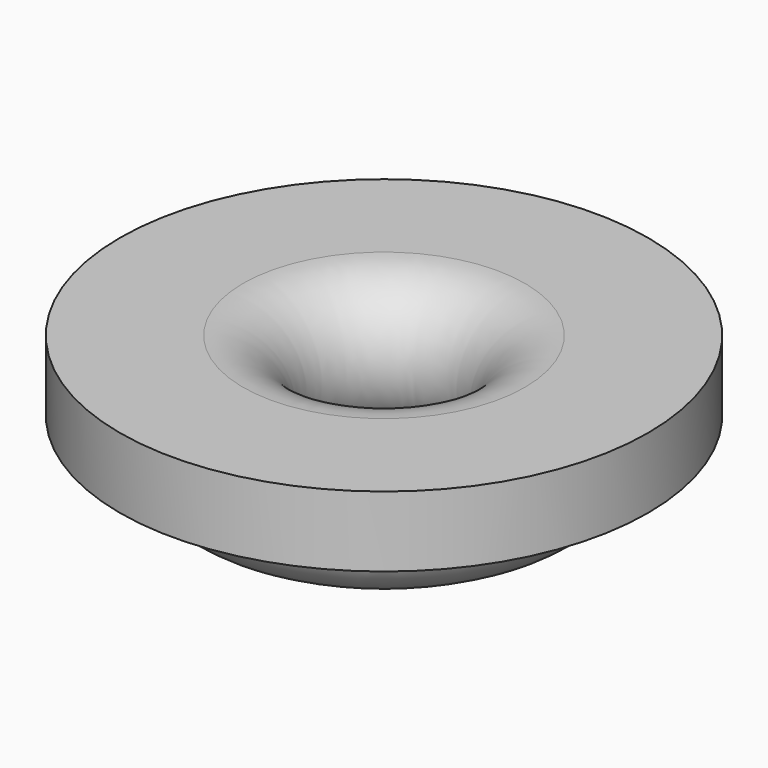
from build123d import *


with BuildPart() as f1:
    # F0 (on Front) → F1 (revolve)
    with BuildSketch(Plane.XZ):
        with BuildLine():
            Line((40, 0), (60, 0))
            ThreePointArc((60, 0), (54.1421356237, 14.1421356237), (40, 20))
            Line((40, 20), (40, 0))
        make_face()
        with BuildLine():
            ThreePointArc((40, 20), (25.8578643763, -14.1421356237), (60, 0))
            Line((60, 0), (40, 0))
            Line((40, 0), (40, 20))
        make_face()
        with BuildLine():
            ThreePointArc((40, 20), (54.1421356237, 14.1421356237), (60, 0))
            Line((60, 0), (75, 0))
            Line((75, 0), (75, 20))
            Line((75, 20), (40, 20))
        make_face()
    revolve(axis=Axis((0, 0, 0.3604143858), (0, 0, -1)))


solid = f1.part
